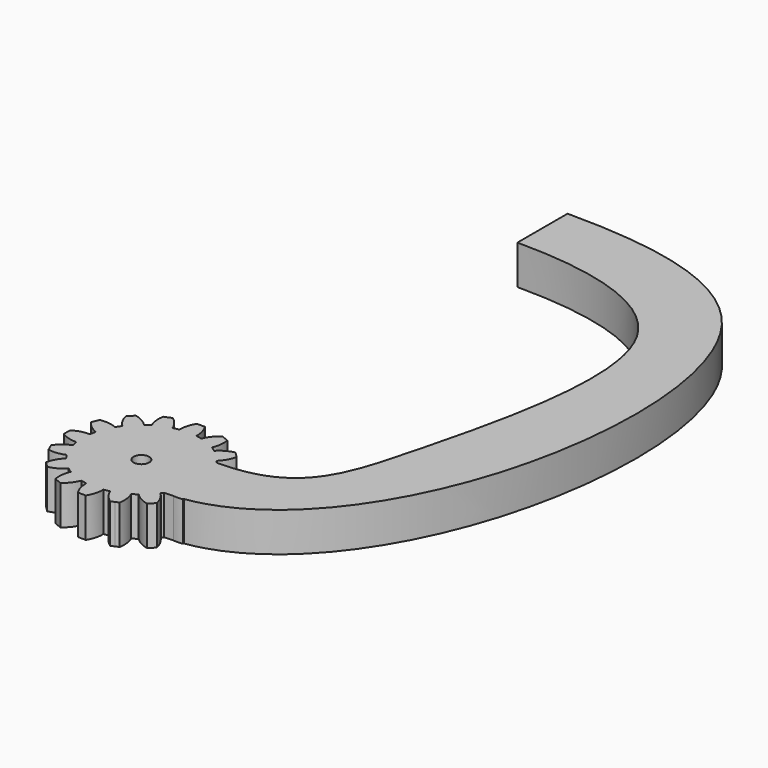
from build123d import *

# Parameters (mm, degrees)
F1_DEPTH = 5
F2_R     = 1
F3_DEPTH = 5.001
F5_DEPTH = 5


with BuildPart() as f1:
    # F0 (on Top) → F1 (new body)
    with BuildSketch(Plane.XY):
        with BuildLine():
            ThreePointArc((7.4206173165, -1.0883191822), (7.4801280027, -0.5456052265), (7.5, 0))
            ThreePointArc((7.5, 0), (7.4801280027, 0.5456052265), (7.4206173165, 1.0883191822))
            ThreePointArc((7.4206173165, 1.0883191822), (7.355889603, 1.4631774151), (7.2722381774, 1.8342714877))
            ThreePointArc((7.2722381774, 1.8342714877), (6.9290964938, 2.8701257427), (6.4392747372, 3.8452231222))
            ThreePointArc((6.4392747372, 3.8452231222), (6.2360220923, 4.1667767476), (6.0167266989, 4.4776109513))
            ThreePointArc((6.0167266989, 4.4776109513), (5.3033008589, 5.3033008589), (4.4776109513, 6.0167266989))
            ThreePointArc((4.4776109513, 6.0167266989), (4.1667767476, 6.2360220923), (3.8452231222, 6.4392747372))
            ThreePointArc((3.8452231222, 6.4392747372), (2.8701257427, 6.9290964938), (1.8342714877, 7.2722381774))
            ThreePointArc((1.8342714877, 7.2722381774), (1.4631774151, 7.355889603), (1.0883191822, 7.4206173165))
            ThreePointArc((1.0883191822, 7.4206173165), (0, 7.5), (-1.0883191822, 7.4206173165))
            ThreePointArc((-1.0883191822, 7.4206173165), (-1.4631774151, 7.355889603), (-1.8342714877, 7.2722381774))
            ThreePointArc((-1.8342714877, 7.2722381774), (-2.8701257427, 6.9290964938), (-3.8452231222, 6.4392747372))
            ThreePointArc((-3.8452231222, 6.4392747372), (-4.1667767476, 6.2360220923), (-4.4776109513, 6.0167266989))
            ThreePointArc((-4.4776109513, 6.0167266989), (-5.3033008589, 5.3033008589), (-6.0167266989, 4.4776109513))
            ThreePointArc((-6.0167266989, 4.4776109513), (-6.2360220923, 4.1667767476), (-6.4392747372, 3.8452231222))
            ThreePointArc((-6.4392747372, 3.8452231222), (-6.9290964938, 2.8701257427), (-7.2722381774, 1.8342714877))
            ThreePointArc((-7.2722381774, 1.8342714877), (-7.355889603, 1.4631774151), (-7.4206173165, 1.0883191822))
            ThreePointArc((-7.4206173165, 1.0883191822), (-7.5, 0), (-7.4206173165, -1.0883191822))
            ThreePointArc((-7.4206173165, -1.0883191822), (-7.355889603, -1.4631774151), (-7.2722381774, -1.8342714877))
            ThreePointArc((-7.2722381774, -1.8342714877), (-6.9290964938, -2.8701257427), (-6.4392747372, -3.8452231222))
            ThreePointArc((-6.4392747372, -3.8452231222), (-6.2360220923, -4.1667767476), (-6.0167266989, -4.4776109513))
            ThreePointArc((-6.0167266989, -4.4776109513), (-5.3033008589, -5.3033008589), (-4.4776109513, -6.0167266989))
            ThreePointArc((-4.4776109513, -6.0167266989), (-4.1667767476, -6.2360220923), (-3.8452231222, -6.4392747372))
            ThreePointArc((-3.8452231222, -6.4392747372), (-2.8701257427, -6.9290964938), (-1.8342714877, -7.2722381774))
            ThreePointArc((-1.8342714877, -7.2722381774), (-1.4631774151, -7.355889603), (-1.0883191822, -7.4206173165))
            ThreePointArc((-1.0883191822, -7.4206173165), (0, -7.5), (1.0883191822, -7.4206173165))
            ThreePointArc((1.0883191822, -7.4206173165), (1.4631774151, -7.355889603), (1.8342714877, -7.2722381774))
            ThreePointArc((1.8342714877, -7.2722381774), (2.8701257427, -6.9290964938), (3.8452231222, -6.4392747372))
            ThreePointArc((3.8452231222, -6.4392747372), (4.1667767476, -6.2360220923), (4.4776109513, -6.0167266989))
            ThreePointArc((4.4776109513, -6.0167266989), (5.3033008589, -5.3033008589), (6.0167266989, -4.4776109513))
            ThreePointArc((6.0167266989, -4.4776109513), (6.2360220923, -4.1667767476), (6.4392747372, -3.8452231222))
            ThreePointArc((6.4392747372, -3.8452231222), (6.9290964938, -2.8701257427), (7.2722381774, -1.8342714877))
            ThreePointArc((7.2722381774, -1.8342714877), (7.355889603, -1.4631774151), (7.4206173165, -1.0883191822))
        make_face()
        with BuildLine():
            ThreePointArc((7.4206173165, 1.0883191822), (7.4801280027, 0.5456052265), (7.5, 0))
            ThreePointArc((7.5, 0), (7.4801280027, -0.5456052265), (7.4206173165, -1.0883191822))
            ThreePointArc((7.4206173165, -1.0883191822), (8.5043518229, -0.9498278009), (9.5, -0.5))
            Line((9.5, -0.5), (9.5, 0))
            Line((9.5, 0), (9.5, 0.5))
            ThreePointArc((9.5, 0.5), (8.5043518229, 0.9498278009), (7.4206173165, 1.0883191822))
        make_face()
        with BuildLine():
            ThreePointArc((6.4392747372, 3.8452231222), (6.9290964938, 2.8701257427), (7.2722381774, 1.8342714877))
            ThreePointArc((7.2722381774, 1.8342714877), (8.2204799494, 2.376948081), (8.968197275, 3.1735528412))
            Line((8.968197275, 3.1735528412), (8.7768555589, 3.6354926075))
            Line((8.7768555589, 3.6354926075), (8.5855138427, 4.0974323737))
            ThreePointArc((8.5855138427, 4.0974323737), (7.4935132234, 4.1320010103), (6.4392747372, 3.8452231222))
        make_face()
        with BuildLine():
            ThreePointArc((8.968197275, -3.1735528412), (8.2204799494, -2.376948081), (7.2722381774, -1.8342714877))
            ThreePointArc((7.2722381774, -1.8342714877), (6.9290964938, -2.8701257427), (6.4392747372, -3.8452231222))
            ThreePointArc((6.4392747372, -3.8452231222), (7.4935132234, -4.1320010103), (8.5855138427, -4.0974323737))
            Line((8.5855138427, -4.0974323737), (8.7768555589, -3.6354926075))
            Line((8.7768555589, -3.6354926075), (8.968197275, -3.1735528412))
        make_face()
        with BuildLine():
            ThreePointArc((4.4776109513, 6.0167266989), (5.3033008589, 5.3033008589), (6.0167266989, 4.4776109513))
            ThreePointArc((6.0167266989, 4.4776109513), (6.6851145225, 5.3418551646), (7.0710678119, 6.3639610307))
            Line((7.0710678119, 6.3639610307), (6.7175144213, 6.7175144213))
            Line((6.7175144213, 6.7175144213), (6.3639610307, 7.0710678119))
            ThreePointArc((6.3639610307, 7.0710678119), (5.3418551646, 6.6851145225), (4.4776109513, 6.0167266989))
        make_face()
        with BuildLine():
            ThreePointArc((7.0710678119, -6.3639610307), (6.6851145225, -5.3418551646), (6.0167266989, -4.4776109513))
            ThreePointArc((6.0167266989, -4.4776109513), (5.3033008589, -5.3033008589), (4.4776109513, -6.0167266989))
            ThreePointArc((4.4776109513, -6.0167266989), (5.3418551646, -6.6851145225), (6.3639610307, -7.0710678119))
            Line((6.3639610307, -7.0710678119), (6.7175144213, -6.7175144213))
            Line((6.7175144213, -6.7175144213), (7.0710678119, -6.3639610307))
        make_face()
        with BuildLine():
            ThreePointArc((1.8342714877, 7.2722381774), (2.8701257427, 6.9290964938), (3.8452231222, 6.4392747372))
            ThreePointArc((3.8452231222, 6.4392747372), (4.1320010103, 7.4935132234), (4.0974323737, 8.5855138427))
            Line((4.0974323737, 8.5855138427), (3.6354926075, 8.7768555589))
            Line((3.6354926075, 8.7768555589), (3.1735528412, 8.968197275))
            ThreePointArc((3.1735528412, 8.968197275), (2.376948081, 8.2204799494), (1.8342714877, 7.2722381774))
        make_face()
        with BuildLine():
            ThreePointArc((4.0974323737, -8.5855138427), (4.1320010103, -7.4935132234), (3.8452231222, -6.4392747372))
            ThreePointArc((3.8452231222, -6.4392747372), (2.8701257427, -6.9290964938), (1.8342714877, -7.2722381774))
            ThreePointArc((1.8342714877, -7.2722381774), (2.376948081, -8.2204799494), (3.1735528412, -8.968197275))
            Line((3.1735528412, -8.968197275), (3.6354926075, -8.7768555589))
            Line((3.6354926075, -8.7768555589), (4.0974323737, -8.5855138427))
        make_face()
        with BuildLine():
            ThreePointArc((-1.0883191822, 7.4206173165), (0, 7.5), (1.0883191822, 7.4206173165))
            ThreePointArc((1.0883191822, 7.4206173165), (0.9498278009, 8.5043518229), (0.5, 9.5))
            Line((0.5, 9.5), (0, 9.5))
            Line((0, 9.5), (-0.5, 9.5))
            ThreePointArc((-0.5, 9.5), (-0.9498278009, 8.5043518229), (-1.0883191822, 7.4206173165))
        make_face()
        with BuildLine():
            ThreePointArc((0.5, -9.5), (0.9498278009, -8.5043518229), (1.0883191822, -7.4206173165))
            ThreePointArc((1.0883191822, -7.4206173165), (0, -7.5), (-1.0883191822, -7.4206173165))
            ThreePointArc((-1.0883191822, -7.4206173165), (-0.9498278009, -8.5043518229), (-0.5, -9.5))
            Line((-0.5, -9.5), (0, -9.5))
            Line((0, -9.5), (0.5, -9.5))
        make_face()
        with BuildLine():
            ThreePointArc((-3.8452231222, 6.4392747372), (-2.8701257427, 6.9290964938), (-1.8342714877, 7.2722381774))
            ThreePointArc((-1.8342714877, 7.2722381774), (-2.376948081, 8.2204799494), (-3.1735528412, 8.968197275))
            Line((-3.1735528412, 8.968197275), (-3.6354926075, 8.7768555589))
            Line((-3.6354926075, 8.7768555589), (-4.0974323737, 8.5855138427))
            ThreePointArc((-4.0974323737, 8.5855138427), (-4.1320010103, 7.4935132234), (-3.8452231222, 6.4392747372))
        make_face()
        with BuildLine():
            ThreePointArc((-3.1735528412, -8.968197275), (-2.376948081, -8.2204799494), (-1.8342714877, -7.2722381774))
            ThreePointArc((-1.8342714877, -7.2722381774), (-2.8701257427, -6.9290964938), (-3.8452231222, -6.4392747372))
            ThreePointArc((-3.8452231222, -6.4392747372), (-4.1320010103, -7.4935132234), (-4.0974323737, -8.5855138427))
            Line((-4.0974323737, -8.5855138427), (-3.6354926075, -8.7768555589))
            Line((-3.6354926075, -8.7768555589), (-3.1735528412, -8.968197275))
        make_face()
        with BuildLine():
            ThreePointArc((-6.0167266989, 4.4776109513), (-5.3033008589, 5.3033008589), (-4.4776109513, 6.0167266989))
            ThreePointArc((-4.4776109513, 6.0167266989), (-5.3418551646, 6.6851145225), (-6.3639610307, 7.0710678119))
            Line((-6.3639610307, 7.0710678119), (-6.7175144213, 6.7175144213))
            Line((-6.7175144213, 6.7175144213), (-7.0710678119, 6.3639610307))
            ThreePointArc((-7.0710678119, 6.3639610307), (-6.6851145225, 5.3418551646), (-6.0167266989, 4.4776109513))
        make_face()
        with BuildLine():
            ThreePointArc((-6.3639610307, -7.0710678119), (-5.3418551646, -6.6851145225), (-4.4776109513, -6.0167266989))
            ThreePointArc((-4.4776109513, -6.0167266989), (-5.3033008589, -5.3033008589), (-6.0167266989, -4.4776109513))
            ThreePointArc((-6.0167266989, -4.4776109513), (-6.6851145225, -5.3418551646), (-7.0710678119, -6.3639610307))
            Line((-7.0710678119, -6.3639610307), (-6.7175144213, -6.7175144213))
            Line((-6.7175144213, -6.7175144213), (-6.3639610307, -7.0710678119))
        make_face()
        with BuildLine():
            ThreePointArc((-7.2722381774, 1.8342714877), (-6.9290964938, 2.8701257427), (-6.4392747372, 3.8452231222))
            ThreePointArc((-6.4392747372, 3.8452231222), (-7.4935132234, 4.1320010103), (-8.5855138427, 4.0974323737))
            Line((-8.5855138427, 4.0974323737), (-8.7768555589, 3.6354926075))
            Line((-8.7768555589, 3.6354926075), (-8.968197275, 3.1735528412))
            ThreePointArc((-8.968197275, 3.1735528412), (-8.2204799494, 2.376948081), (-7.2722381774, 1.8342714877))
        make_face()
        with BuildLine():
            ThreePointArc((-8.5855138427, -4.0974323737), (-7.4935132234, -4.1320010103), (-6.4392747372, -3.8452231222))
            ThreePointArc((-6.4392747372, -3.8452231222), (-6.9290964938, -2.8701257427), (-7.2722381774, -1.8342714877))
            ThreePointArc((-7.2722381774, -1.8342714877), (-8.2204799494, -2.376948081), (-8.968197275, -3.1735528412))
            Line((-8.968197275, -3.1735528412), (-8.7768555589, -3.6354926075))
            Line((-8.7768555589, -3.6354926075), (-8.5855138427, -4.0974323737))
        make_face()
        with BuildLine():
            ThreePointArc((-7.4206173165, -1.0883191822), (-7.5, 0), (-7.4206173165, 1.0883191822))
            ThreePointArc((-7.4206173165, 1.0883191822), (-8.5043518229, 0.9498278009), (-9.5, 0.5))
            Line((-9.5, 0.5), (-9.5, 0))
            Line((-9.5, 0), (-9.5, -0.5))
            ThreePointArc((-9.5, -0.5), (-8.5043518229, -0.9498278009), (-7.4206173165, -1.0883191822))
        make_face()
    extrude(amount=F1_DEPTH)

    # F2 (on face) → F3 (cut, through all)
    with BuildSketch(Plane.XY.offset(5)):
        Circle(F2_R)
    extrude(amount=-F3_DEPTH, mode=Mode.SUBTRACT)

    # F4 (on Top) → F5 (join, through all)
    with BuildSketch(Plane.XY):
        with BuildLine():
            Line((0, 68), (0, 60))
            add(Edge.make_bspline(
                [(0, 60), (10, 60), (29.3466646239, 55.2092842401), (19.911473837, 17.6173132233), (16.2360220923, 4.1667767476), (6.2360220923, 4.1667767476)],
                knots=[0, 0, 0, 0, 0.3256379151, 0.7063644579, 1, 1, 1, 1], degree=3))
            Line((6.2360220923, 4.1667767476), (6.2360220923, -4.1667767476))
            add(Edge.make_bspline(
                [(0, 68), (10, 68), (34.0503046573, 65.1461115539), (33.6892675607, 15.742605531), (16.2360220923, -4.1667767476), (6.2360220923, -4.1667767476)],
                knots=[0, 0, 0, 0, 0.3056637116, 0.6786508364, 1, 1, 1, 1], degree=3))
        make_face()
    extrude(amount=F5_DEPTH)


solid = f1.part
